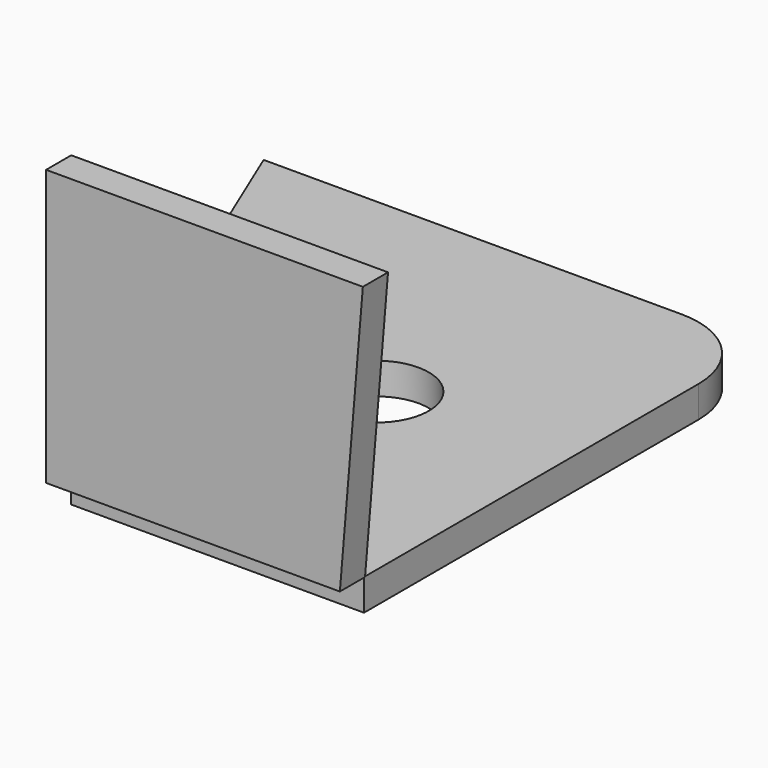
from build123d import *

# Parameters (mm, degrees)
F1_DEPTH = 4.7752
F2_R     = 12.7
F4_D     = 15.875
F6_DEPTH = 4.7752


with BuildPart() as f1:
    # F0 (on Top) → F1 (new body)
    with BuildSketch(Plane.XY):
        Polygon((-31.75, 76.2), (0, 0), (44.45, 0), (44.45, 76.2), align=None)
    extrude(amount=F1_DEPTH)

    # F2
    f2_edges = [f1.edges().sort_by_distance(p)[0] for p in [
        (44.45, 76.2, 2.3876),
    ]]
    fillet(f2_edges, radius=F2_R)

    # F4 (through all)
    with Locations(Plane.XY.offset(4.7752)):
        with Locations((15.875, 38.1)):
            Hole(F4_D / 2)


with BuildPart() as f6:
    # F5 (on Front) → F6 (new body)
    with BuildSketch(Plane.XZ):
        Polygon((0, 46.690453), (0, 4.836771), (44.607852, 4.82475), (48.096657, 46.690453), align=None)
    extrude(amount=F6_DEPTH)


solid = Compound([f1.part, f6.part])
